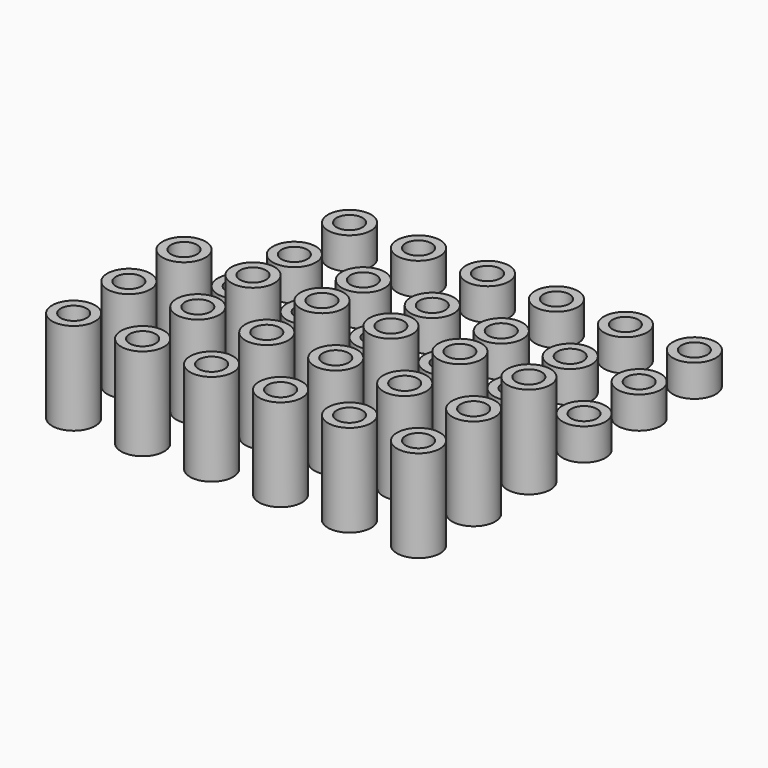
from build123d import *

# Parameters (mm, degrees)
F0_R     = 2.5
F0_R_2   = 1.5
F1_DEPTH = 3.7
F2_DEPTH = 10.7


with BuildPart() as f1:
    # F0 (on Top) → F1 (new body)
    with BuildSketch(Plane.XY):
        with Locations((-20, 20)):
            Circle(F0_R)
        with Locations((-20, 20)):
            Circle(F0_R_2, mode=Mode.SUBTRACT)
        with Locations((-4, 20)):
            Circle(F0_R)
        with Locations((-4, 20)):
            Circle(F0_R_2, mode=Mode.SUBTRACT)
        with Locations((-12, 20)):
            Circle(F0_R)
        with Locations((-12, 20)):
            Circle(F0_R_2, mode=Mode.SUBTRACT)
        with Locations((4, 20)):
            Circle(F0_R)
        with Locations((4, 20)):
            Circle(F0_R_2, mode=Mode.SUBTRACT)
        with Locations((12, 20)):
            Circle(F0_R)
        with Locations((12, 20)):
            Circle(F0_R_2, mode=Mode.SUBTRACT)
        with Locations((12, 12)):
            Circle(F0_R)
        with Locations((12, 12)):
            Circle(F0_R_2, mode=Mode.SUBTRACT)
        with Locations((4, 12)):
            Circle(F0_R)
        with Locations((4, 12)):
            Circle(F0_R_2, mode=Mode.SUBTRACT)
        with Locations((-4, 12)):
            Circle(F0_R)
        with Locations((-4, 12)):
            Circle(F0_R_2, mode=Mode.SUBTRACT)
        with Locations((-12, 12)):
            Circle(F0_R)
        with Locations((-12, 12)):
            Circle(F0_R_2, mode=Mode.SUBTRACT)
        with Locations((20, 20)):
            Circle(F0_R)
        with Locations((20, 20)):
            Circle(F0_R_2, mode=Mode.SUBTRACT)
        with Locations((20, 12)):
            Circle(F0_R)
        with Locations((20, 12)):
            Circle(F0_R_2, mode=Mode.SUBTRACT)
        with Locations((-20, 12)):
            Circle(F0_R)
        with Locations((-20, 12)):
            Circle(F0_R_2, mode=Mode.SUBTRACT)
        with Locations((-20, 4)):
            Circle(F0_R)
        with Locations((-20, 4)):
            Circle(F0_R_2, mode=Mode.SUBTRACT)
        with Locations((-12, 4)):
            Circle(F0_R)
        with Locations((-12, 4)):
            Circle(F0_R_2, mode=Mode.SUBTRACT)
        with Locations((-4, 4)):
            Circle(F0_R)
        with Locations((-4, 4)):
            Circle(F0_R_2, mode=Mode.SUBTRACT)
        with Locations((4, 4)):
            Circle(F0_R)
        with Locations((4, 4)):
            Circle(F0_R_2, mode=Mode.SUBTRACT)
        with Locations((12, 4)):
            Circle(F0_R)
        with Locations((12, 4)):
            Circle(F0_R_2, mode=Mode.SUBTRACT)
        with Locations((20, 4)):
            Circle(F0_R)
        with Locations((20, 4)):
            Circle(F0_R_2, mode=Mode.SUBTRACT)
    extrude(amount=F1_DEPTH)


with BuildPart() as f2:
    # F0 (on Top) → F2 (new body)
    with BuildSketch(Plane.XY):
        with Locations((-20, -4)):
            Circle(F0_R)
        with Locations((-20, -4)):
            Circle(F0_R_2, mode=Mode.SUBTRACT)
        with Locations((-12, -4)):
            Circle(F0_R)
        with Locations((-12, -4)):
            Circle(F0_R_2, mode=Mode.SUBTRACT)
        with Locations((-4, -4)):
            Circle(F0_R)
        with Locations((-4, -4)):
            Circle(F0_R_2, mode=Mode.SUBTRACT)
        with Locations((4, -4)):
            Circle(F0_R)
        with Locations((4, -4)):
            Circle(F0_R_2, mode=Mode.SUBTRACT)
        with Locations((12, -4)):
            Circle(F0_R)
        with Locations((12, -4)):
            Circle(F0_R_2, mode=Mode.SUBTRACT)
        with Locations((20, -4)):
            Circle(F0_R)
        with Locations((20, -4)):
            Circle(F0_R_2, mode=Mode.SUBTRACT)
        with Locations((20, -12)):
            Circle(F0_R)
        with Locations((20, -12)):
            Circle(F0_R_2, mode=Mode.SUBTRACT)
        with Locations((12, -12)):
            Circle(F0_R)
        with Locations((12, -12)):
            Circle(F0_R_2, mode=Mode.SUBTRACT)
        with Locations((-4, -12)):
            Circle(F0_R)
        with Locations((-4, -12)):
            Circle(F0_R_2, mode=Mode.SUBTRACT)
        with Locations((-12, -12)):
            Circle(F0_R)
        with Locations((-12, -12)):
            Circle(F0_R_2, mode=Mode.SUBTRACT)
        with Locations((-20, -12)):
            Circle(F0_R)
        with Locations((-20, -12)):
            Circle(F0_R_2, mode=Mode.SUBTRACT)
        with Locations((-20, -20)):
            Circle(F0_R)
        with Locations((-20, -20)):
            Circle(F0_R_2, mode=Mode.SUBTRACT)
        with Locations((-12, -20)):
            Circle(F0_R)
        with Locations((-12, -20)):
            Circle(F0_R_2, mode=Mode.SUBTRACT)
        with Locations((-4, -20)):
            Circle(F0_R)
        with Locations((-4, -20)):
            Circle(F0_R_2, mode=Mode.SUBTRACT)
        with Locations((4, -20)):
            Circle(F0_R)
        with Locations((4, -20)):
            Circle(F0_R_2, mode=Mode.SUBTRACT)
        with Locations((12, -20)):
            Circle(F0_R)
        with Locations((12, -20)):
            Circle(F0_R_2, mode=Mode.SUBTRACT)
        with Locations((20, -20)):
            Circle(F0_R)
        with Locations((20, -20)):
            Circle(F0_R_2, mode=Mode.SUBTRACT)
        with Locations((4, -12)):
            Circle(F0_R)
        with Locations((4, -12)):
            Circle(F0_R_2, mode=Mode.SUBTRACT)
    extrude(amount=F2_DEPTH)


solid = Compound([f1.part, f2.part])
